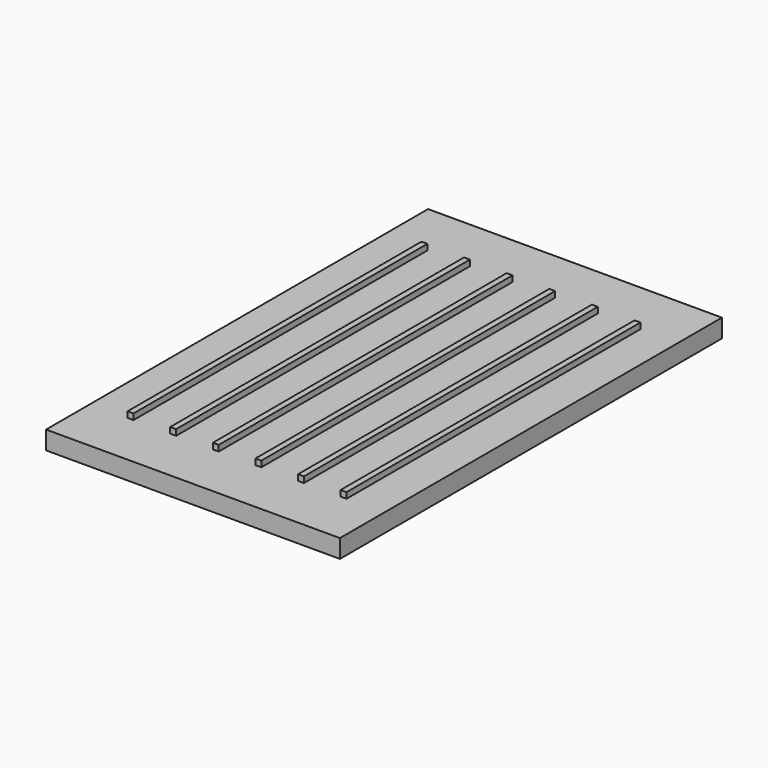
from build123d import *

# Parameters (mm, degrees)
F0_W     = 40
F0_H     = 65
F0_W_2   = 0.8
F0_H_2   = 50
F1_DEPTH = 2.5
F2_DEPTH = 0.8


with BuildPart() as f1:
    # F0 (on Top) → F1 (new body)
    with BuildSketch(Plane.XY):
        Rectangle(F0_W, F0_H)
        with Locations((-14.5, 0)):
            Rectangle(F0_W_2, F0_H_2, mode=Mode.SUBTRACT)
        with Locations((-8.7, 0)):
            Rectangle(F0_W_2, F0_H_2, mode=Mode.SUBTRACT)
        with Locations((-2.9, 0)):
            Rectangle(F0_W_2, F0_H_2, mode=Mode.SUBTRACT)
        with Locations((2.9, 0)):
            Rectangle(F0_W_2, F0_H_2, mode=Mode.SUBTRACT)
        with Locations((8.7, 0)):
            Rectangle(F0_W_2, F0_H_2, mode=Mode.SUBTRACT)
        with Locations((14.5, 0)):
            Rectangle(F0_W_2, F0_H_2, mode=Mode.SUBTRACT)
        with Locations((14.5, 0)):
            Rectangle(F0_W_2, F0_H_2)
        with Locations((8.7, 0)):
            Rectangle(F0_W_2, F0_H_2)
        with Locations((2.9, 0)):
            Rectangle(F0_W_2, F0_H_2)
        with Locations((-2.9, 0)):
            Rectangle(F0_W_2, F0_H_2)
        with Locations((-8.7, 0)):
            Rectangle(F0_W_2, F0_H_2)
        with Locations((-14.5, 0)):
            Rectangle(F0_W_2, F0_H_2)
    extrude(amount=-F1_DEPTH)

    # F0 (on Top) → F2 (join)
    with BuildSketch(Plane.XY):
        with Locations((14.5, 0)):
            Rectangle(F0_W_2, F0_H_2)
        with Locations((8.7, 0)):
            Rectangle(F0_W_2, F0_H_2)
        with Locations((2.9, 0)):
            Rectangle(F0_W_2, F0_H_2)
        with Locations((-2.9, 0)):
            Rectangle(F0_W_2, F0_H_2)
        with Locations((-8.7, 0)):
            Rectangle(F0_W_2, F0_H_2)
        with Locations((-14.5, 0)):
            Rectangle(F0_W_2, F0_H_2)
    extrude(amount=F2_DEPTH)


solid = f1.part
